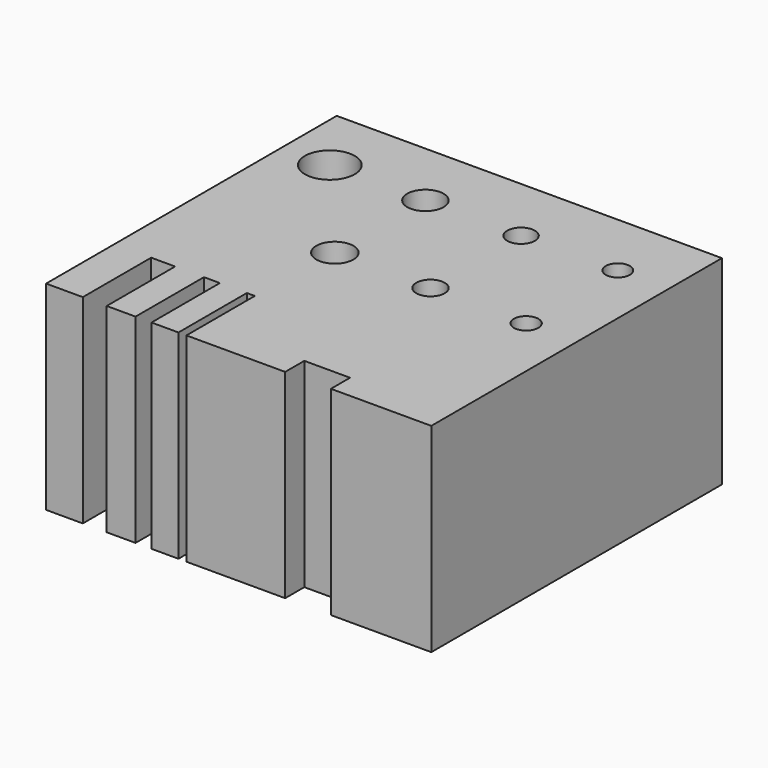
from build123d import *

# Parameters (mm, degrees)
F0_R     = 2.33125
F0_R_2   = 3.125
F0_R_3   = 2.28125
F0_R_4   = 1.785938
F0_R_5   = 1.5375
F0_R_6   = 1.735938
F0_R_7   = 1.5125
F1_DEPTH = 25


with BuildPart() as f1:
    # F0 (on Top) → F1 (new body)
    with BuildSketch(Plane.XY):
        Polygon((5.74, -22.791601), (18.334102, -22.791601), (18.334102, 22.791601), (-30, 22.791601), (-30, -22.791601), (-25.392139, -22.791601), (-25.392139, -12.067302), (-22.392139, -12.067302), (-22.392139, -22.791601), (-18.77352, -22.791601), (-18.77352, -12.067302), (-16.77352, -12.067302), (-16.77352, -22.791601), (-13.390374, -22.791601), (-13.390374, -12.067302), (-12.390374, -12.067302), (-12.390374, -22.791601), (0, -22.791601), (0, -19.791601), (5.74, -19.791601), align=None)
        with Locations((-12, 0)):
            Circle(F0_R, mode=Mode.SUBTRACT)
        with Locations((-23.998596, 14.207526)):
            Circle(F0_R_2, mode=Mode.SUBTRACT)
        with Locations((-12, 14.207526)):
            Circle(F0_R_3, mode=Mode.SUBTRACT)
        Circle(F0_R_4, mode=Mode.SUBTRACT)
        with Locations((12, 0)):
            Circle(F0_R_5, mode=Mode.SUBTRACT)
        with Locations((0, 14.207526)):
            Circle(F0_R_6, mode=Mode.SUBTRACT)
        with Locations((12, 14.384023)):
            Circle(F0_R_7, mode=Mode.SUBTRACT)
    extrude(amount=-F1_DEPTH)


solid = f1.part
